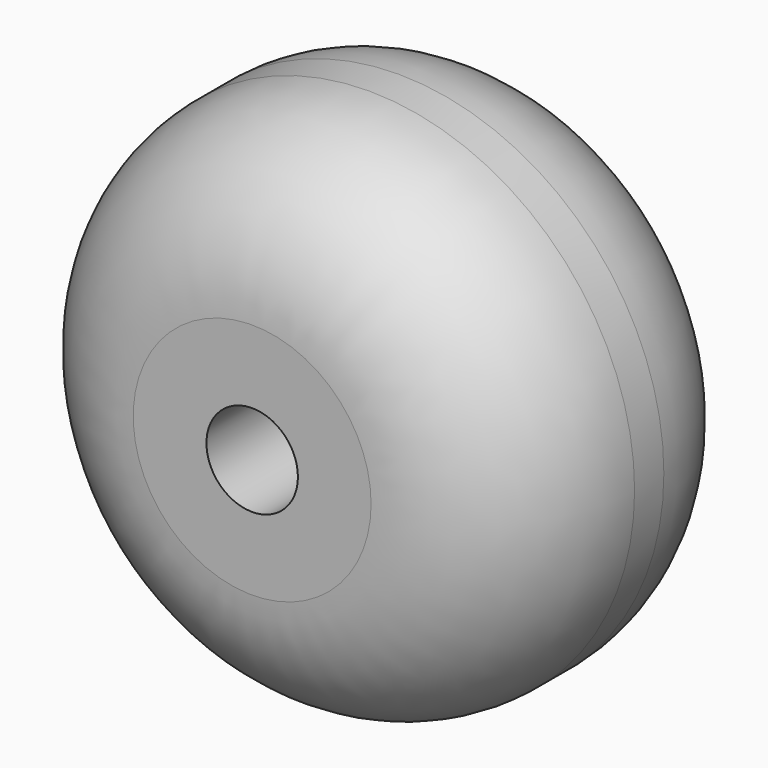
from build123d import *

# Parameters (mm, degrees)
F0_R     = 9.2075
F1_DEPTH = 11.43
F2_R     = 5.08
F3_R     = 1.5875
F4_DEPTH = 25.4


with BuildPart() as f1:
    # F0 (on Front) → F1 (new body)
    with BuildSketch(Plane.XZ):
        Circle(F0_R)
    extrude(amount=F1_DEPTH)

    # F2
    f2_edges = [f1.edges().sort_by_distance(p)[0] for p in [
        (-9.2075, -11.43, 0),
        (-9.2075, 0, 0),
    ]]
    fillet(f2_edges, radius=F2_R)

    # F3 (on face) → F4 (cut)
    with BuildSketch(Plane.XZ.offset(11.43)):
        Circle(F3_R)
    extrude(amount=-F4_DEPTH, mode=Mode.SUBTRACT)


solid = f1.part
